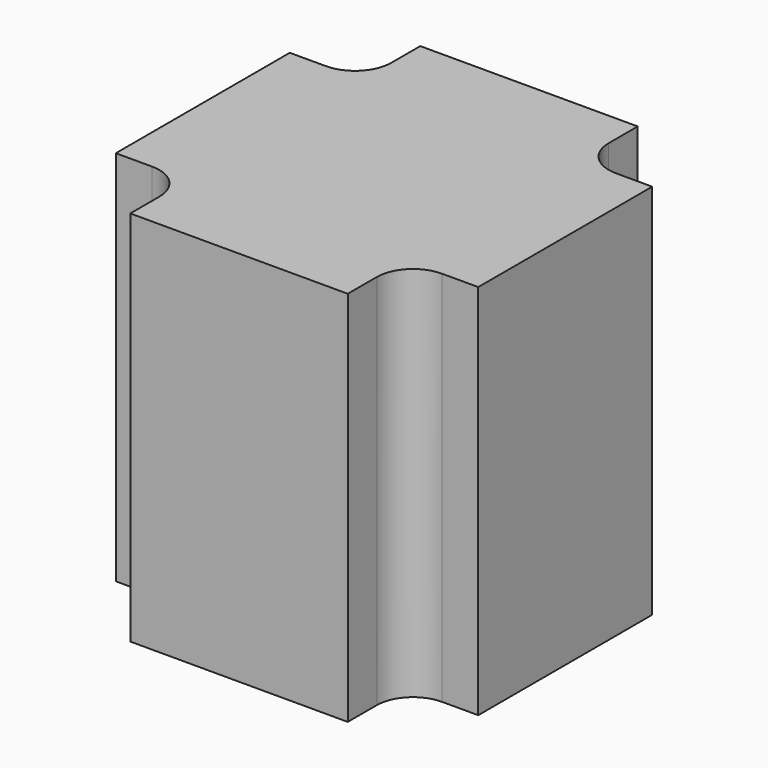
from build123d import *

# Parameters (mm, degrees)
F1_DEPTH = 52
F2_R     = 5


with BuildPart() as f1:
    # F0 (on Top) → F1 (new body)
    with BuildSketch(Plane.XY):
        Polygon((15, 25), (-15, 25), (-15, 15), (-25, 15), (-25, -15), (-15, -15), (-15, -25), (15, -25), (15, -15), (25, -15), (25, 15), (15, 15), align=None)
    extrude(amount=F1_DEPTH)

    # F2
    f2_edges = [f1.edges().sort_by_distance(p)[0] for p in [
        (-15, -15, 26),
        (15, -15, 26),
        (15, 15, 26),
        (-15, 15, 26),
    ]]
    fillet(f2_edges, radius=F2_R)


solid = f1.part
